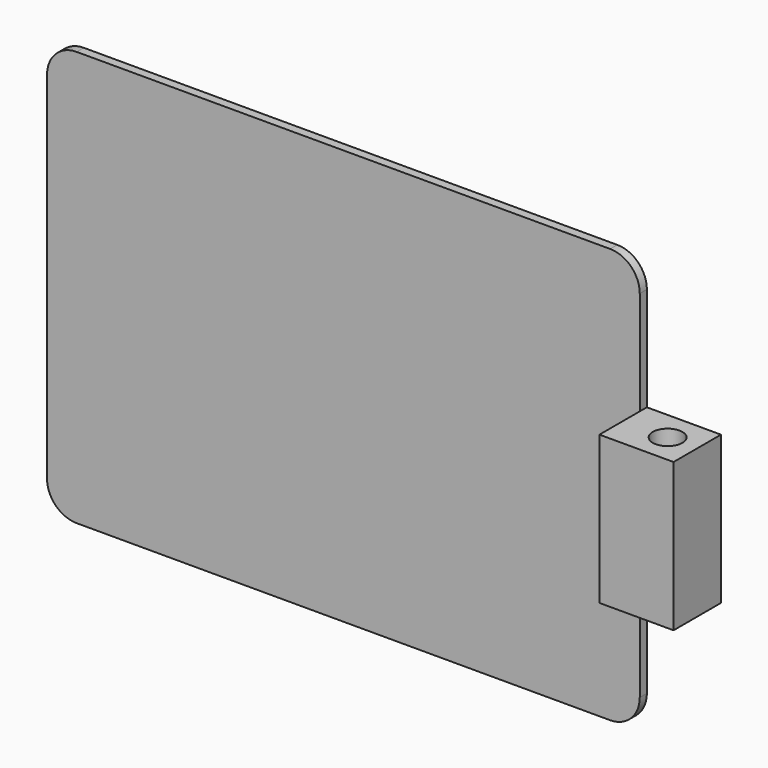
from build123d import *

# Parameters (mm, degrees)
F0_W     = 200
F0_H     = 140
F1_DEPTH = 3
F2_R     = 10
F3_W     = 25
F3_H     = 50
F4_DEPTH = 20
F5_R     = 5
F6_DEPTH = 87.527208


with BuildPart() as f1:
    # F0 (on Front) → F1 (new body)
    with BuildSketch(Plane.XZ):
        with Locations((16.716758, -6.526925)):
            Rectangle(F0_W, F0_H)
    extrude(amount=F1_DEPTH)

    # F2
    f2_edges = [f1.edges().sort_by_distance(p)[0] for p in [
        (-83.283242, -1.5, -76.526925),
        (116.716758, -1.5, 63.473075),
        (116.716758, -1.5, -76.526925),
        (-83.283242, -1.5, 63.473075),
    ]]
    fillet(f2_edges, radius=F2_R)

    # F3 (on Front) → F4 (join)
    with BuildSketch(Plane.XZ):
        with Locations((129.216758, -6.526925)):
            Rectangle(F3_W, F3_H)
    extrude(amount=F4_DEPTH)

    # F5 (on face) → F6 (cut)
    with BuildSketch(Plane.XY.offset(18.473075)):
        with Locations((131.716758, -10)):
            Circle(F5_R)
    extrude(amount=-F6_DEPTH, mode=Mode.SUBTRACT)


solid = f1.part
